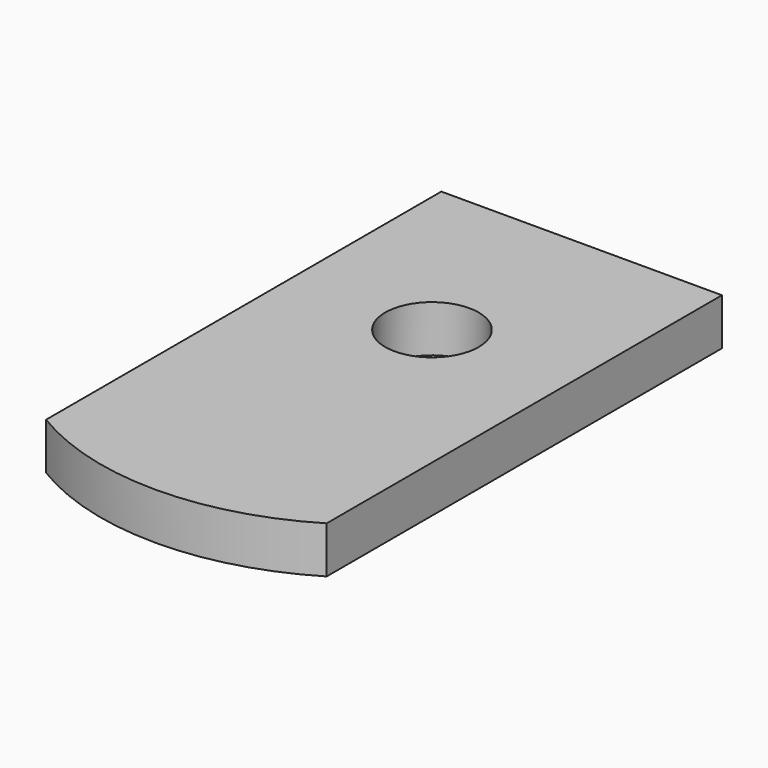
from build123d import *

# Parameters (mm, degrees)
F0_R     = 127
F1_DEPTH = 127


with BuildPart() as f1:
    # F0 (on Top) → F1 (new body)
    with BuildSketch(Plane.XY):
        with BuildLine():
            Line((-381, 508), (-381, 0))
            Line((-381, 0), (-381, -833.611421))
            ThreePointArc((-381, -833.611421), (0, -939.8), (381, -833.611421))
            Line((381, -833.611421), (381, 0))
            Line((381, 0), (381, 508))
            Line((381, 508), (-381, 508))
        make_face()
        Circle(F0_R, mode=Mode.SUBTRACT)
    extrude(amount=F1_DEPTH)


solid = f1.part
